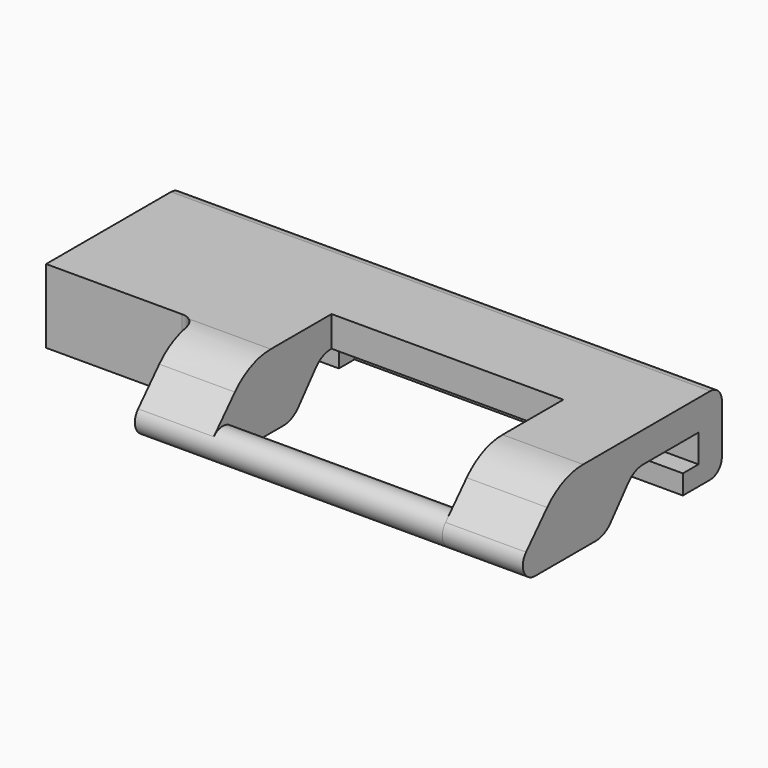
from build123d import *

# Parameters (mm, degrees)
F0_R      = 1.5875
F1_DEPTH  = 12.065
F3_DEPTH  = 8.382
F6_DEPTH  = 24.13
F7_R      = 2.54
F9_DEPTH  = 15.24
F11_DEPTH = 0.508
F12_R     = 1.524
F13_W     = 2.032
F13_H     = 2.032
F14_DEPTH = 3.302
F15_R     = 1.5875


with BuildPart() as f1:
    # F0 (on Right) → F1 (new body)
    with BuildSketch(Plane.YZ):
        Circle(F0_R)
    extrude(amount=F1_DEPTH)

    # F2 (on face) → F3 (join)
    with BuildSketch(Plane.YZ.offset(12.065)):
        with BuildLine():
            Line((24.3205, -2.032), (24.3205, 6.096))
            Line((24.3205, 6.096), (6.2485151547, 6.096))
            ThreePointArc((6.2485151547, 6.096), (3.7025695222, 5.5632726287), (1.5838033934, 4.0544758539))
            Line((1.5838033934, 4.0544758539), (-1.1661779403, 1.0771189635))
            ThreePointArc((-1.1661779403, 1.0771189635), (-1.4543181572, -0.6364864081), (0, -1.5875))
            Line((0, -1.5875), (9.0805, -1.5875))
            Line((9.0805, -1.5875), (12.8905, 2.921))
            Line((12.8905, 2.921), (21.2725, 2.921))
            Line((21.2725, 2.921), (21.2725, 0))
            Line((21.2725, 0), (19.2405, 0))
            Line((19.2405, 0), (19.2405, -2.032))
            Line((19.2405, -2.032), (24.3205, -2.032))
        make_face()
    extrude(amount=F3_DEPTH)

    # F4: F1 across plane


with BuildPart() as f1_1:
    add(f1.part)
    add(f1.part.mirror(Plane.YZ))

    # F5 (on face) → F6 (join, through all)
    with BuildSketch(Plane.YZ.offset(-12.065)):
        Polygon((24.3205, -2.032), (24.3205, 6.096), (14.1605, 6.096), (14.1605, 2.921), (21.2725, 2.921), (21.2725, -2.032), align=None)
    extrude(amount=F6_DEPTH)

    # F7
    f7_edges = [f1_1.edges().sort_by_distance(p)[0] for p in [
        (16.256, 9.0805, -1.5875),
        (16.256, 12.8905, 2.921),
        (-16.256, 9.0805, -1.5875),
        (-16.256, 12.8905, 2.921),
    ]]
    fillet(f7_edges, radius=F7_R)

    # F8 (on face) → F9 (join)
    with BuildSketch(Plane(origin=(-20.447, 0, 0), x_dir=(0, -1, 0), z_dir=(-1, 0, 0))):
        with BuildLine():
            Line((-6.5405, 6.096), (-24.3205, 6.096))
            Line((-24.3205, 6.096), (-24.3205, -2.032))
            Line((-24.3205, -2.032), (-19.2405, -2.032))
            Line((-19.2405, -2.032), (-19.2405, 0))
            Line((-19.2405, 0), (-21.2725, 0))
            Line((-21.2725, 0), (-21.2725, 2.921))
            Line((-21.2725, 2.921), (-14.0695243298, 2.921))
            ThreePointArc((-14.0695243298, 2.921), (-13.0000966588, 2.6848933258), (-12.1294871065, 2.020468076))
            Line((-12.1294871065, 2.020468076), (-9.8415128935, -0.686968076))
            ThreePointArc((-9.8415128935, -0.686968076), (-8.9709033412, -1.3513933258), (-7.9014756702, -1.5875))
            Line((-7.9014756702, -1.5875), (-6.5405, -1.5875))
            Line((-6.5405, -1.5875), (-6.5405, 6.096))
        make_face()
    extrude(amount=F9_DEPTH)

    # F10 (on face) → F11 (cut)
    with BuildSketch(Plane(origin=(-20.447, 0, 0), x_dir=(0, -1, 0), z_dir=(-1, 0, 0))):
        with BuildLine():
            ThreePointArc((-1.5838033934, 4.0544758539), (-3.7025695222, 5.5632726287), (-6.2485151547, 6.096))
            Line((-6.2485151547, 6.096), (-6.5405, 6.096))
            Line((-6.5405, 6.096), (-6.5405, -1.5875))
            Line((-6.5405, -1.5875), (0, -1.5875))
            ThreePointArc((0, -1.5875), (1.4543181572, -0.6364864081), (1.1661779403, 1.0771189635))
            Line((1.1661779403, 1.0771189635), (-1.5838033934, 4.0544758539))
        make_face()
    extrude(amount=-F11_DEPTH, mode=Mode.SUBTRACT)

    # F12
    f12_edges = [f1_1.edges().sort_by_distance(p)[0] for p in [
        (-7.62, 24.3205, 6.096),
        (-7.62, 24.3205, -2.032),
    ]]
    fillet(f12_edges, radius=F12_R)

    # F13 (on face) → F14 (cut)
    with BuildSketch(Plane.YZ.offset(-12.065)):
        with Locations((20.2565, -1.016)):
            Rectangle(F13_W, F13_H)
    extrude(amount=-F14_DEPTH, mode=Mode.SUBTRACT)

    # F15
    f15_edges = [f1_1.edges().sort_by_distance(p)[0] for p in [
        (-19.939, 6.5405, 2.25425),
    ]]
    fillet(f15_edges, radius=F15_R)


solid = f1_1.part
